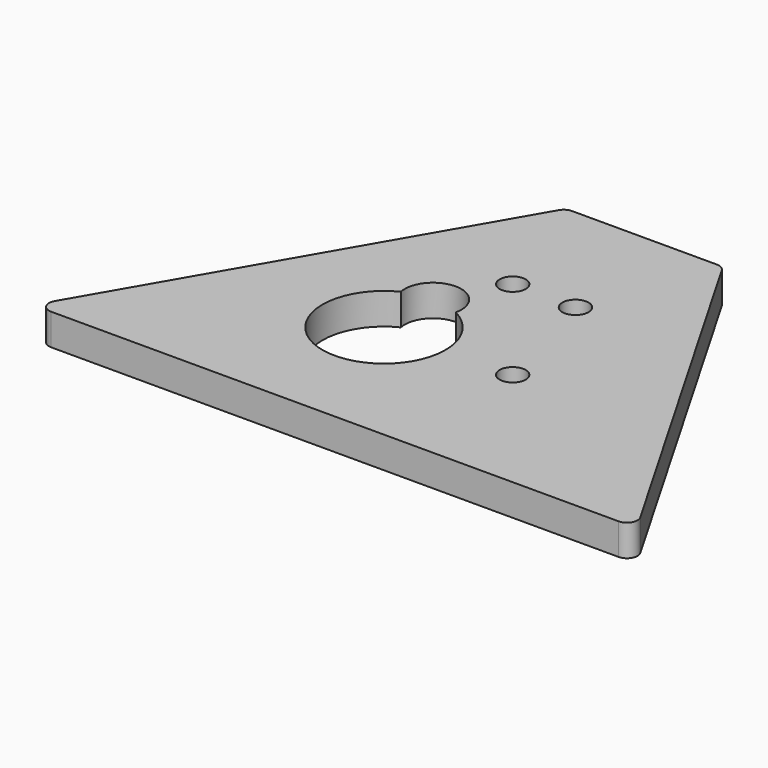
from build123d import *

# Parameters (mm, degrees)
SKETCH001_R      = 2.7
EXTRUDE001_DEPTH = 10
SKETCH_R         = 1.25
SKETCH_R_2       = 5.88
EXTRUDE_DEPTH    = 3
FILLET_R         = 1


with BuildPart() as extrude001:
    # Sketch001 (on Face5 of Fillet) → Extrude001 (new body)
    with BuildSketch(Plane.XY.offset(3)):
        with Locations((-6.109428, 19.36281)):
            Circle(SKETCH001_R)
    extrude(amount=-EXTRUDE001_DEPTH)


with BuildPart() as cut:
    # Sketch → Extrude (new body)
    with BuildSketch(Plane.XY):
        Polygon((0, 0), (28.86196, 0), (7.5, 37), (-7.5, 37), (-28.86196, 0), align=None)
        with Locations((-3, 25)):
            Circle(SKETCH_R, mode=Mode.SUBTRACT)
        with Locations((3, 25)):
            Circle(SKETCH_R, mode=Mode.SUBTRACT)
        with Locations((-6.15, 13.555595)):
            Circle(SKETCH_R_2, mode=Mode.SUBTRACT)
        with Locations((6.15, 13.555595)):
            Circle(SKETCH_R, mode=Mode.SUBTRACT)
    extrude(amount=EXTRUDE_DEPTH)

    # Fillet
    fillet_edges = [cut.edges().sort_by_distance(p)[0] for p in [
        (28.86196, 0, 1.5),
        (7.5, 37, 1.5),
        (-7.5, 37, 1.5),
        (-28.86196, 0, 1.5),
    ]]
    fillet(fillet_edges, radius=FILLET_R)

    # Cut: cut Extrude001
    add(extrude001.part, mode=Mode.SUBTRACT)


solid = cut.part
